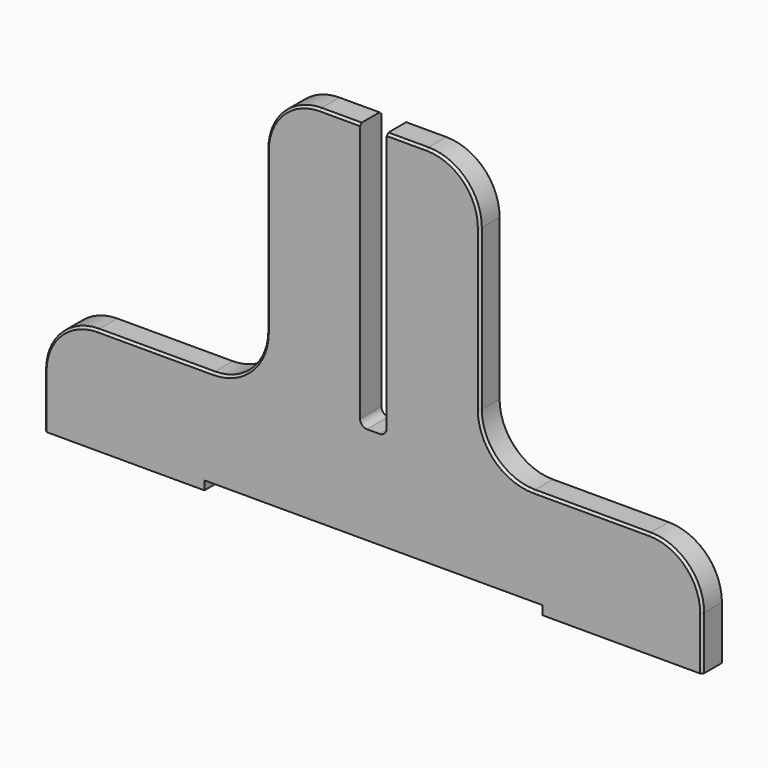
from build123d import *

# Parameters (mm, degrees)
F1_DEPTH = 19.05
F2_R     = 38.1
F3_R     = 5.08
F4_SIZE  = 1.5875


with BuildPart() as f1:
    # F0 (on Front) → F1 (new body)
    with BuildSketch(Plane.XZ):
        Polygon((76.2, -95.25), (76.2, 95.25), (9.525, 95.25), (9.525, -95.25), (-9.525, -95.25), (-9.525, 95.25), (-76.2, 95.25), (-76.2, -95.25), (-234.95, -95.25), (-234.95, -171.45), (-120.65, -171.45), (-120.65, -165.1), (120.65, -165.1), (120.65, -171.45), (234.95, -171.45), (234.95, -95.25), align=None)
    extrude(amount=F1_DEPTH)

    # F2
    f2_edges = [f1.edges().sort_by_distance(p)[0] for p in [
        (-234.95, -9.525, -95.25),
        (-76.2, -9.525, -95.25),
        (76.2, -9.525, -95.25),
        (234.95, -9.525, -95.25),
        (76.2, -9.525, 95.25),
        (-76.2, -9.525, 95.25),
    ]]
    fillet(f2_edges, radius=F2_R)

    # F3
    f3_edges = [f1.edges().sort_by_distance(p)[0] for p in [
        (9.525, -9.525, -95.25),
        (-9.525, -9.525, -95.25),
    ]]
    fillet(f3_edges, radius=F3_R)

    # F4
    f4_edges = [f1.edges().sort_by_distance(p)[0] for p in [
        (-155.575, -19.05, -95.25),
        (155.575, -19.05, -95.25),
        (155.575, 0, -95.25),
        (-23.8125, 0, 95.25),
    ]]
    chamfer(f4_edges, length=F4_SIZE)


solid = f1.part
